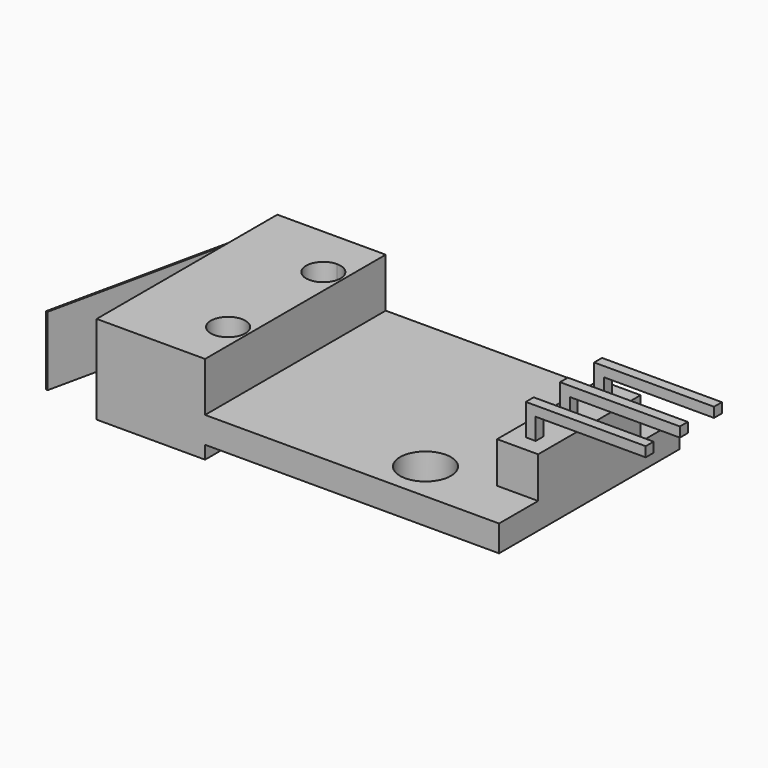
from build123d import *

# Parameters (mm, degrees)
F0_R          = 1.55
F0_W          = 2.5
F0_H          = 2.6
F0_W_2        = 0.6
F0_H_2        = 0.6
F1_DEPTH      = 1.6
F2_DEPTH      = 4.1
F3_DEPTH      = 6
F4_W          = 0.6
F4_H          = 0.6
F5_DEPTH      = 6.7
F6_DEPTH      = 4.6
F7_DEPTH      = 0.8
F8_DEPTH      = 4
F8_DEPTH_BACK = 0.2


with BuildPart() as f1:
    # F0 (on Top) → F1 (new body)
    with BuildSketch(Plane.XY):
        Polygon((-8.95, -6.875), (8.95, -6.875), (8.95, -3.9), (6.45, -3.9), (6.45, -1.3), (6.45, 1.3), (6.45, 3.9), (8.95, 3.9), (8.95, 6.875), (-8.95, 6.875), (-8.95, 4.675), (-8.95, -4.675), align=None)
        with Locations((2.55, -4.475)):
            Circle(F0_R, mode=Mode.SUBTRACT)
        with Locations((7.7, 2.6)):
            Rectangle(F0_W, F0_H)
        with Locations((7.7, 2.6)):
            Rectangle(F0_W_2, F0_H_2, mode=Mode.SUBTRACT)
        with Locations((7.7, 0)):
            Rectangle(F0_W, F0_H)
        with Locations((7.7, 0)):
            Rectangle(F0_W_2, F0_H_2, mode=Mode.SUBTRACT)
        with Locations((7.7, 2.6)):
            Rectangle(F0_W_2, F0_H_2)
        with Locations((7.7, 0)):
            Rectangle(F0_W_2, F0_H_2)
        with Locations((7.7, -2.6)):
            Rectangle(F0_W, F0_H)
        with Locations((7.7, -2.6)):
            Rectangle(F0_W_2, F0_H_2, mode=Mode.SUBTRACT)
        with Locations((7.7, -2.6)):
            Rectangle(F0_W_2, F0_H_2)
    extrude(amount=F1_DEPTH)

    # F0 (on Top) → F2 (join)
    with BuildSketch(Plane.XY):
        with Locations((7.7, 2.6)):
            Rectangle(F0_W_2, F0_H_2)
        with Locations((7.7, 2.6)):
            Rectangle(F0_W, F0_H)
        with Locations((7.7, 2.6)):
            Rectangle(F0_W_2, F0_H_2, mode=Mode.SUBTRACT)
        with Locations((7.7, 0)):
            Rectangle(F0_W_2, F0_H_2)
        with Locations((7.7, 0)):
            Rectangle(F0_W, F0_H)
        with Locations((7.7, 0)):
            Rectangle(F0_W_2, F0_H_2, mode=Mode.SUBTRACT)
        with Locations((7.7, -2.6)):
            Rectangle(F0_W_2, F0_H_2)
        with Locations((7.7, -2.6)):
            Rectangle(F0_W, F0_H)
        with Locations((7.7, -2.6)):
            Rectangle(F0_W_2, F0_H_2, mode=Mode.SUBTRACT)
    extrude(amount=F2_DEPTH)

    # F0 (on Top) → F3 (join)
    with BuildSketch(Plane.XY):
        with Locations((7.7, -2.6)):
            Rectangle(F0_W_2, F0_H_2)
        with Locations((7.7, 0)):
            Rectangle(F0_W_2, F0_H_2)
        with Locations((7.7, 2.6)):
            Rectangle(F0_W_2, F0_H_2)
    extrude(amount=F3_DEPTH)

    # F4 (on face) → F5 (join)
    with BuildSketch(Plane.YZ.offset(8)):
        with Locations((-2.6, 5.7)):
            Rectangle(F4_W, F4_H)
        with Locations((0, 5.7)):
            Rectangle(F4_W, F4_H)
        with Locations((2.6, 5.7)):
            Rectangle(F4_W, F4_H)
    extrude(amount=F5_DEPTH)

    # F0 (on Top) → F6 (join)
    with BuildSketch(Plane.XY):
        Polygon((-15.55, -6.875), (-8.95, -6.875), (-8.95, -4.675), (-8.95, 4.675), (-8.95, 6.875), (-15.55, 6.875), align=None)
        with BuildLine():
            ThreePointArc((-9.1, -3.625), (-9.407538, -4.367462), (-10.15, -4.675))
            ThreePointArc((-10.15, -4.675), (-10.892462, -2.882538), (-9.1, -3.625))
        make_face(mode=Mode.SUBTRACT)
        with BuildLine():
            ThreePointArc((-9.1, 3.625), (-10.892462, 2.882538), (-10.15, 4.675))
            ThreePointArc((-10.15, 4.675), (-9.407538, 4.367462), (-9.1, 3.625))
        make_face(mode=Mode.SUBTRACT)
    extrude(amount=F6_DEPTH)

    # F0 (on Top) → F7 (join)
    with BuildSketch(Plane.XY):
        Polygon((-15.55, -6.875), (-8.95, -6.875), (-8.95, -4.675), (-8.95, 4.675), (-8.95, 6.875), (-15.55, 6.875), align=None)
        with BuildLine():
            ThreePointArc((-9.1, -3.625), (-9.407538, -4.367462), (-10.15, -4.675))
            ThreePointArc((-10.15, -4.675), (-10.892462, -2.882538), (-9.1, -3.625))
        make_face(mode=Mode.SUBTRACT)
        with BuildLine():
            ThreePointArc((-9.1, 3.625), (-10.892462, 2.882538), (-10.15, 4.675))
            ThreePointArc((-10.15, 4.675), (-9.407538, 4.367462), (-9.1, 3.625))
        make_face(mode=Mode.SUBTRACT)
    extrude(amount=-F7_DEPTH)


with BuildPart() as f8:
    # F0 (on Top) → F8 (new body, two sides)
    with BuildSketch(Plane.XY) as f8_sk:
        Polygon((-18.55, -6.875), (-15.55, 6.875), (-15.647702, 6.896317), (-18.647702, -6.853683), align=None)
    extrude(amount=F8_DEPTH)
    extrude(f8_sk.sketch, amount=-F8_DEPTH_BACK)


solid = Compound([f1.part, f8.part])
